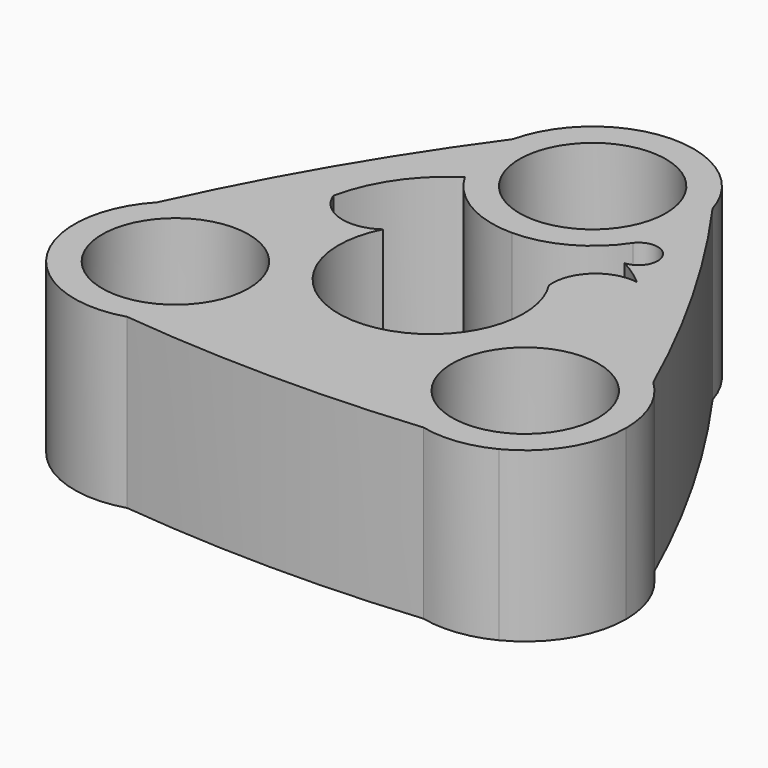
from build123d import *

# Parameters (mm, degrees)
F0_R     = 11.049
F1_DEPTH = 25.4
F2_DEPTH = 25.4


with BuildPart() as f1:
    # F0 (on Top) → F1 (new body)
    with BuildSketch(Plane.XY):
        with BuildLine():
            ThreePointArc((11.7814514995, 7.5072165658), (13.4117071517, 3.9098607745), (13.97, 0))
            ThreePointArc((13.97, 0), (-3.3198148199, -13.5698094888), (-12.3921660074, 6.4494280091))
            ThreePointArc((-12.3921660074, 6.4494280091), (-18.1144161616, 5.491925307), (-22.3375658393, 9.4701114579))
            ThreePointArc((-22.3375658393, 9.4701114579), (-19.1125242771, 17.0828384763), (-13.1982271537, 22.86))
            ThreePointArc((-13.1982271537, 22.86), (-15.0773857713, 28.2596310433), (-14.8345973958, 33.9717502926))
            ThreePointArc((-14.8345973958, 33.9717502926), (-27.1350680748, 15.1641790656), (-37.4838164006, -4.7839968529))
            ThreePointArc((-37.4838164006, -4.7839968529), (-20.7712342362, -1.076155213), (-11.1564543073, -15.24))
            ThreePointArc((-11.1564543073, -15.24), (-14.1650946399, -24.3312837754), (-22.0031000665, -29.8330133459))
            ThreePointArc((-22.0031000665, -29.8330133459), (0.4349697391, -31.081747819), (22.8849710065, -30.0699388073))
            ThreePointArc((22.8849710065, -30.0699388073), (11.2593167407, -13.4723274374), (26.3964543073, 0))
            ThreePointArc((26.3964543073, 0), (24.3504342278, 8.0105123163), (19.3701400189, 14.6098437466))
            ThreePointArc((19.3701400189, 14.6098437466), (13.8133549124, 12.9415819171), (11.7814514995, 7.5072165658))
        make_face()
        with BuildLine():
            ThreePointArc((15.2189978183, 17.4838557876), (17.3812836494, 16.1720980867), (19.3701400189, 14.6098437466))
            ThreePointArc((19.3701400189, 14.6098437466), (24.3504342278, 8.0105123163), (26.3964543073, 0))
            ThreePointArc((26.3964543073, 0), (32.0122512707, -1.0724164211), (36.8376974623, -4.1387369467))
            ThreePointArc((36.8376974623, -4.1387369467), (26.7000983357, 15.9175687534), (14.5988453941, 34.8539356602))
            ThreePointArc((14.5988453941, 34.8539356602), (15.0788594364, 32.69033891), (15.24, 30.48))
            ThreePointArc((15.24, 30.48), (14.6051180743, 26.1270554752), (12.7533692867, 22.1367888773))
            ThreePointArc((12.7533692867, 22.1367888773), (17.57558266, 21.7123752268), (15.2189978183, 17.4838557876))
        make_face()
        with BuildLine():
            ThreePointArc((-13.1982271537, 22.86), (-7.62, 17.2817728463), (0, 15.24))
            ThreePointArc((0, 15.24), (7.2493814388, 17.074625378), (12.7533692867, 22.1367888773))
            ThreePointArc((12.7533692867, 22.1367888773), (14.6051180743, 26.1270554752), (15.24, 30.48))
            ThreePointArc((15.24, 30.48), (15.0788594364, 32.69033891), (14.5988453941, 34.8539356602))
            ThreePointArc((14.5988453941, 34.8539356602), (11.505690551, 39.090096987), (8.3139361742, 43.2524729513))
            ThreePointArc((8.3139361742, 43.2524729513), (-5.6712175905, 44.6254901308), (-14.8345973958, 33.9717502926))
            ThreePointArc((-14.8345973958, 33.9717502926), (-15.0773857713, 28.2596310433), (-13.1982271537, 22.86))
        make_face()
        with BuildLine():
            ThreePointArc((11.049, 30.48), (7.8128228253, 22.6671771747), (0, 19.431))
            ThreePointArc((0, 19.431), (-7.8128228253, 38.2928228253), (11.049, 30.48))
        make_face(mode=Mode.SUBTRACT)
        with BuildLine():
            ThreePointArc((36.8376974623, -4.1387369467), (32.0122512707, -1.0724164211), (26.3964543073, 0))
            ThreePointArc((26.3964543073, 0), (11.2593167407, -13.4723274374), (22.8849710065, -30.0699388073))
            ThreePointArc((22.8849710065, -30.0699388073), (28.1001717516, -29.5092687987), (33.3007722652, -28.8263164079))
            ThreePointArc((33.3007722652, -28.8263164079), (39.3864390202, -23.2098116139), (41.6364543073, -15.24))
            ThreePointArc((41.6364543073, -15.24), (40.3854168436, -9.1929736928), (36.8376974623, -4.1387369467))
        make_face()
        with Locations((26.3964543073, -15.24)):
            Circle(F0_R, mode=Mode.SUBTRACT)
        with BuildLine():
            ThreePointArc((33.3007722652, -28.8263164079), (28.1001717516, -29.5092687987), (22.8849710065, -30.0699388073))
            ThreePointArc((22.8849710065, -30.0699388073), (28.2032417659, -30.3725185967), (33.3007722652, -28.8263164079))
        make_face()
        with BuildLine():
            ThreePointArc((8.3139361742, 43.2524729513), (11.505690551, 39.090096987), (14.5988453941, 34.8539356602))
            ThreePointArc((14.5988453941, 34.8539356602), (12.2017517987, 39.6109831367), (8.3139361742, 43.2524729513))
        make_face()
        with BuildLine():
            ThreePointArc((-41.6147084394, -14.4261565433), (-35.8111993144, -27.2241635692), (-22.0031000665, -29.8330133459))
            ThreePointArc((-22.0031000665, -29.8330133459), (-14.1650946399, -24.3312837754), (-11.1564543073, -15.24))
            ThreePointArc((-11.1564543073, -15.24), (-20.7712342362, -1.076155213), (-37.4838164006, -4.7839968529))
            ThreePointArc((-37.4838164006, -4.7839968529), (-39.6058623026, -9.5808281882), (-41.6147084394, -14.4261565433))
        make_face()
        with Locations((-26.3964543073, -15.24)):
            Circle(F0_R, mode=Mode.SUBTRACT)
        with BuildLine():
            ThreePointArc((-41.6147084394, -14.4261565433), (-39.6058623026, -9.5808281882), (-37.4838164006, -4.7839968529))
            ThreePointArc((-37.4838164006, -4.7839968529), (-40.4049935646, -9.23846454), (-41.6147084394, -14.4261565433))
        make_face()
    extrude(amount=F1_DEPTH)

    # F0 (on Top) → F2 (join)
    with BuildSketch(Plane.XY):
        with BuildLine():
            ThreePointArc((11.7814514995, 7.5072165658), (13.4117071517, 3.9098607745), (13.97, 0))
            ThreePointArc((13.97, 0), (-3.3198148199, -13.5698094888), (-12.3921660074, 6.4494280091))
            ThreePointArc((-12.3921660074, 6.4494280091), (-18.1144161616, 5.491925307), (-22.3375658393, 9.4701114579))
            ThreePointArc((-22.3375658393, 9.4701114579), (-19.1125242771, 17.0828384763), (-13.1982271537, 22.86))
            ThreePointArc((-13.1982271537, 22.86), (-15.0773857713, 28.2596310433), (-14.8345973958, 33.9717502926))
            ThreePointArc((-14.8345973958, 33.9717502926), (-27.1350680748, 15.1641790656), (-37.4838164006, -4.7839968529))
            ThreePointArc((-37.4838164006, -4.7839968529), (-20.7712342362, -1.076155213), (-11.1564543073, -15.24))
            ThreePointArc((-11.1564543073, -15.24), (-14.1650946399, -24.3312837754), (-22.0031000665, -29.8330133459))
            ThreePointArc((-22.0031000665, -29.8330133459), (0.4349697391, -31.081747819), (22.8849710065, -30.0699388073))
            ThreePointArc((22.8849710065, -30.0699388073), (11.2593167407, -13.4723274374), (26.3964543073, 0))
            ThreePointArc((26.3964543073, 0), (24.3504342278, 8.0105123163), (19.3701400189, 14.6098437466))
            ThreePointArc((19.3701400189, 14.6098437466), (13.8133549124, 12.9415819171), (11.7814514995, 7.5072165658))
        make_face()
        with BuildLine():
            ThreePointArc((15.2189978183, 17.4838557876), (17.3812836494, 16.1720980867), (19.3701400189, 14.6098437466))
            ThreePointArc((19.3701400189, 14.6098437466), (24.3504342278, 8.0105123163), (26.3964543073, 0))
            ThreePointArc((26.3964543073, 0), (32.0122512707, -1.0724164211), (36.8376974623, -4.1387369467))
            ThreePointArc((36.8376974623, -4.1387369467), (26.7000983357, 15.9175687534), (14.5988453941, 34.8539356602))
            ThreePointArc((14.5988453941, 34.8539356602), (15.0788594364, 32.69033891), (15.24, 30.48))
            ThreePointArc((15.24, 30.48), (14.6051180743, 26.1270554752), (12.7533692867, 22.1367888773))
            ThreePointArc((12.7533692867, 22.1367888773), (17.57558266, 21.7123752268), (15.2189978183, 17.4838557876))
        make_face()
        with BuildLine():
            ThreePointArc((-13.1982271537, 22.86), (-7.62, 17.2817728463), (0, 15.24))
            ThreePointArc((0, 15.24), (7.2493814388, 17.074625378), (12.7533692867, 22.1367888773))
            ThreePointArc((12.7533692867, 22.1367888773), (14.6051180743, 26.1270554752), (15.24, 30.48))
            ThreePointArc((15.24, 30.48), (15.0788594364, 32.69033891), (14.5988453941, 34.8539356602))
            ThreePointArc((14.5988453941, 34.8539356602), (11.505690551, 39.090096987), (8.3139361742, 43.2524729513))
            ThreePointArc((8.3139361742, 43.2524729513), (-5.6712175905, 44.6254901308), (-14.8345973958, 33.9717502926))
            ThreePointArc((-14.8345973958, 33.9717502926), (-15.0773857713, 28.2596310433), (-13.1982271537, 22.86))
        make_face()
        with BuildLine():
            ThreePointArc((11.049, 30.48), (7.8128228253, 22.6671771747), (0, 19.431))
            ThreePointArc((0, 19.431), (-7.8128228253, 38.2928228253), (11.049, 30.48))
        make_face(mode=Mode.SUBTRACT)
        with BuildLine():
            ThreePointArc((36.8376974623, -4.1387369467), (32.0122512707, -1.0724164211), (26.3964543073, 0))
            ThreePointArc((26.3964543073, 0), (11.2593167407, -13.4723274374), (22.8849710065, -30.0699388073))
            ThreePointArc((22.8849710065, -30.0699388073), (28.1001717516, -29.5092687987), (33.3007722652, -28.8263164079))
            ThreePointArc((33.3007722652, -28.8263164079), (39.3864390202, -23.2098116139), (41.6364543073, -15.24))
            ThreePointArc((41.6364543073, -15.24), (40.3854168436, -9.1929736928), (36.8376974623, -4.1387369467))
        make_face()
        with Locations((26.3964543073, -15.24)):
            Circle(F0_R, mode=Mode.SUBTRACT)
        with BuildLine():
            ThreePointArc((33.3007722652, -28.8263164079), (28.1001717516, -29.5092687987), (22.8849710065, -30.0699388073))
            ThreePointArc((22.8849710065, -30.0699388073), (28.2032417659, -30.3725185967), (33.3007722652, -28.8263164079))
        make_face()
        with BuildLine():
            ThreePointArc((8.3139361742, 43.2524729513), (11.505690551, 39.090096987), (14.5988453941, 34.8539356602))
            ThreePointArc((14.5988453941, 34.8539356602), (12.2017517987, 39.6109831367), (8.3139361742, 43.2524729513))
        make_face()
        with BuildLine():
            ThreePointArc((-41.6147084394, -14.4261565433), (-35.8111993144, -27.2241635692), (-22.0031000665, -29.8330133459))
            ThreePointArc((-22.0031000665, -29.8330133459), (-14.1650946399, -24.3312837754), (-11.1564543073, -15.24))
            ThreePointArc((-11.1564543073, -15.24), (-20.7712342362, -1.076155213), (-37.4838164006, -4.7839968529))
            ThreePointArc((-37.4838164006, -4.7839968529), (-39.6058623026, -9.5808281882), (-41.6147084394, -14.4261565433))
        make_face()
        with Locations((-26.3964543073, -15.24)):
            Circle(F0_R, mode=Mode.SUBTRACT)
        with BuildLine():
            ThreePointArc((-41.6147084394, -14.4261565433), (-39.6058623026, -9.5808281882), (-37.4838164006, -4.7839968529))
            ThreePointArc((-37.4838164006, -4.7839968529), (-40.4049935646, -9.23846454), (-41.6147084394, -14.4261565433))
        make_face()
    extrude(amount=F2_DEPTH)


solid = f1.part
